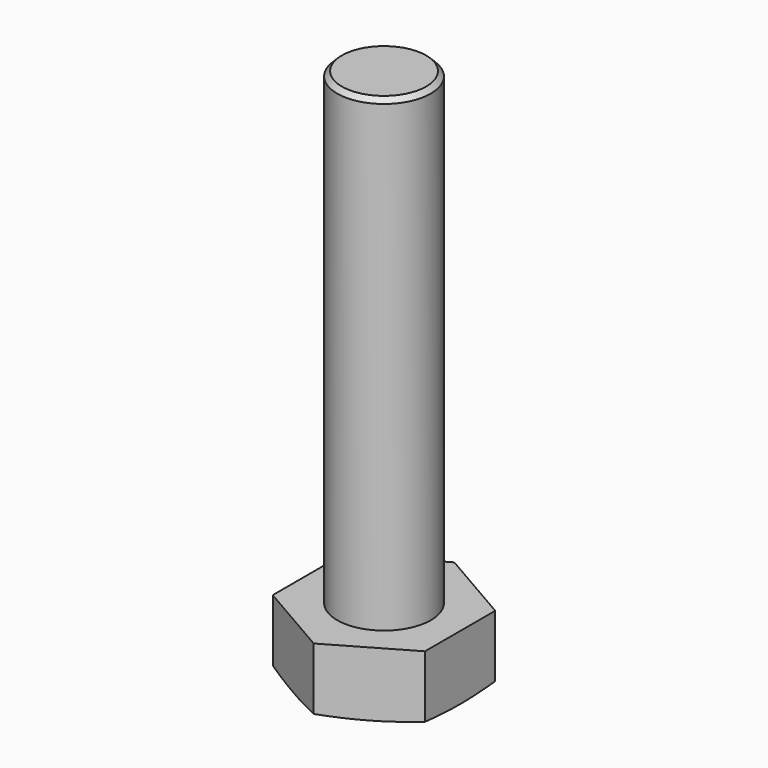
from build123d import *

# Parameters (mm, degrees)
F1_DEPTH = 5.5
F2_R     = 4
F3_DEPTH = 40
F4_SIZE  = 0.4


with BuildPart() as f1:
    # F0 (on Top) → F1 (new body)
    with BuildSketch(Plane.XY):
        Polygon((6.5, 3.752777), (0, 7.505553), (-6.5, 3.752777), (-6.5, -3.752777), (0, -7.505553), (6.5, -3.752777), align=None)
    extrude(amount=F1_DEPTH)

    # F2 (on face) → F3 (join)
    with BuildSketch(Plane.XY.offset(5.5)):
        Circle(F2_R)
    extrude(amount=F3_DEPTH)

    # F4
    f4_edges = [f1.edges().sort_by_distance(p)[0] for p in [
        (-4, 0, 45.5),
    ]]
    chamfer(f4_edges, length=F4_SIZE)

    # F5 (on Front) → F6 (revolve, cut)
    with BuildSketch(Plane.XZ):
        Polygon((-11.5, 1), (-11.5, 0), (-6.5, 0), align=None)
        Polygon((-11.5, 1), (-11.5, 0), (-6.5, 0), align=None)
    revolve(axis=Axis((0, 0, 5.5), (0, 0, -1)), mode=Mode.SUBTRACT)


solid = f1.part
